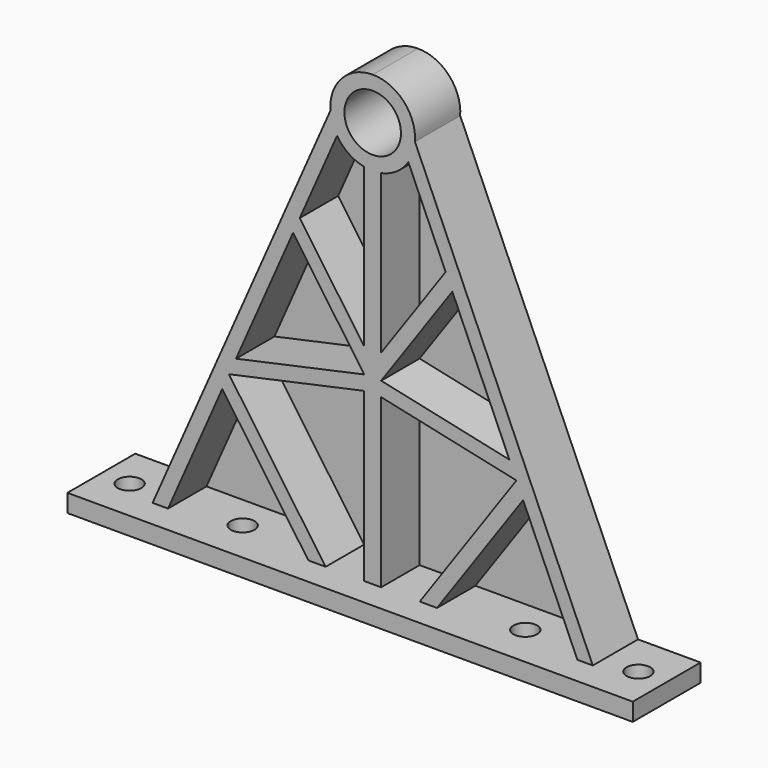
from build123d import *

# Parameters (mm, degrees)
F1_DEPTH = 10
F3_START = -8.5
F3_DEPTH = 1.5
F4_W     = 100
F4_H     = 3.1556577078
F5_DEPTH = 15
F6_R     = 2.1
F7_DEPTH = 3.1556577078


with BuildPart() as f1:
    # F0 (on Front) → F1 (new body)
    with BuildSketch(Plane.XZ):
        with BuildLine():
            Line((-40, 0), (0, 0))
            Line((0, 0), (40, 0))
            Line((40, 0), (39, 3))
            Line((39, 3), (7.4807440028, 74.4629067455))
            ThreePointArc((7.4807440028, 74.4629067455), (5.4899088977, 80.1098826107), (0, 82.5))
            ThreePointArc((0, 82.5), (-5.4899088977, 80.1098826107), (-7.4807440028, 74.4629067455))
            Line((-7.4807440028, 74.4629067455), (-39, 3))
            Line((-39, 3), (-40, 0))
        make_face()
        Polygon((-36.2676340608, 3), (-26.6060408243, 24.9055150458), (-11.2676340608, 3), align=None, mode=Mode.SUBTRACT)
        Polygon((-8.2156975889, 3), (-25.4265780732, 27.5796846579), (-1.5, 32.7676715966), (-1.5, 3), align=None, mode=Mode.SUBTRACT)
        Polygon((8.2156975889, 3), (1.5, 3), (1.5, 32.7676715966), (25.4265780732, 27.5796846579), align=None, mode=Mode.SUBTRACT)
        Polygon((26.6060408243, 24.9055150458), (36.2676340608, 3), (11.2676340608, 3), align=None, mode=Mode.SUBTRACT)
        Polygon((-14.0836967229, 53.2971467781), (-1.5, 35.3257653858), (-24.1790002431, 30.4082900711), align=None, mode=Mode.SUBTRACT)
        with BuildLine():
            Line((-1.5, 39.6843823749), (-12.9042339719, 55.9713163903))
            Line((-12.9042339719, 55.9713163903), (-6.3037586943, 70.9364269018))
            ThreePointArc((-6.3037586943, 70.9364269018), (-4.2334735249, 68.8090629212), (-1.5, 67.6515307717))
            Line((-1.5, 67.6515307717), (-1.5, 39.6843823749))
        make_face(mode=Mode.SUBTRACT)
        Polygon((1.5, 35.3257653858), (14.0836967229, 53.2971467781), (24.1790002431, 30.4082900711), align=None, mode=Mode.SUBTRACT)
        with BuildLine():
            Line((1.5, 39.6843823749), (1.5, 67.6515307717))
            ThreePointArc((1.5, 67.6515307717), (4.2334735249, 68.8090629212), (6.3037586943, 70.9364269018))
            Line((6.3037586943, 70.9364269018), (12.9042339719, 55.9713163903))
            Line((12.9042339719, 55.9713163903), (1.5, 39.6843823749))
        make_face(mode=Mode.SUBTRACT)
        with BuildLine():
            ThreePointArc((0, 80), (5, 75), (0, 70))
            ThreePointArc((0, 70), (-5, 75), (0, 80))
        make_face(mode=Mode.SUBTRACT)
    extrude(amount=F1_DEPTH)

    # F2 (on face) → F3 (join)
    with BuildSketch(Plane.XZ.offset(10).offset(F3_START)):
        Polygon((-1.5, 67.6515307717), (-7.4807440028, 74.4629067455), (-40, 0), (40, 0), (7.4807440028, 74.4629067455), (1.5, 67.6515307717), align=None)
    extrude(amount=-F3_DEPTH)

    # F4 (on Front) → F5 (join)
    with BuildSketch(Plane.XZ):
        with Locations((0, 1.5778288539)):
            Rectangle(F4_W, F4_H)
    extrude(amount=F5_DEPTH)

    # F6 (on face) → F7 (cut, through all)
    with BuildSketch(Plane.XY.offset(3.1556577078)):
        with Locations((-45, -7.5)):
            Circle(F6_R)
        with Locations((45, -7.5)):
            Circle(F6_R)
        with Locations((-25, -7.5)):
            Circle(F6_R)
        with Locations((25, -7.5)):
            Circle(F6_R)
    extrude(amount=-F7_DEPTH, mode=Mode.SUBTRACT)


solid = f1.part
